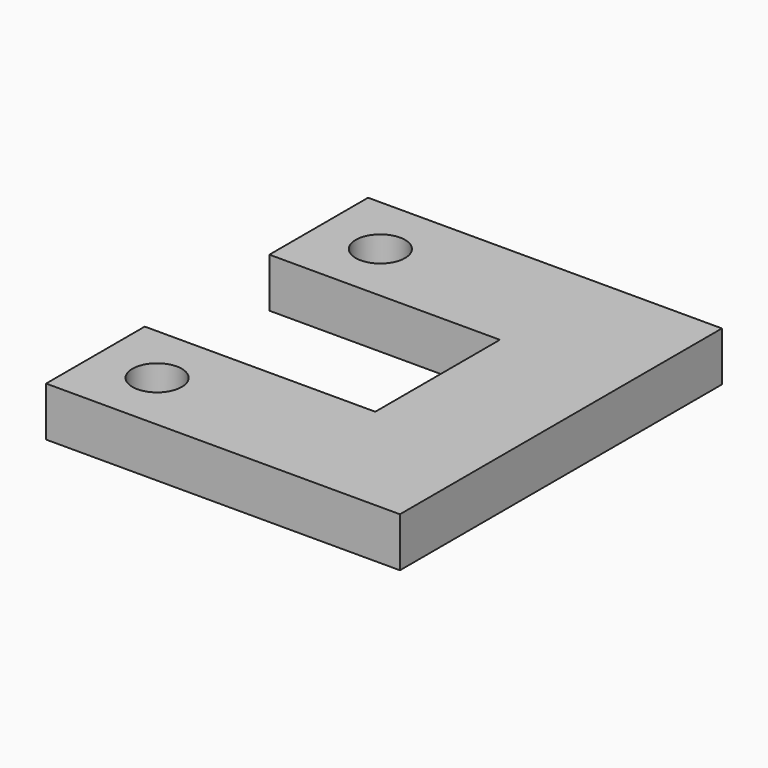
from build123d import *

# Parameters (mm, degrees)
F0_R     = 2
F1_DEPTH = 4


with BuildPart() as f1:
    # F0 (on Top) → F1 (new body)
    with BuildSketch(Plane.XY):
        Polygon((23.686083, 16.3135), (5, 16.3135), (-5, 16.3135), (-5, 6.3135), (5, 6.3135), (13.686083, 6.3135), (13.686083, -6.314), (5, -6.314), (-5, -6.314), (-5, -16.314), (5, -16.314), (23.686083, -16.314), align=None)
        with Locations((0, -11.314)):
            Circle(F0_R, mode=Mode.SUBTRACT)
        with Locations((0, 11.3135)):
            Circle(F0_R, mode=Mode.SUBTRACT)
    extrude(amount=F1_DEPTH)


solid = f1.part
